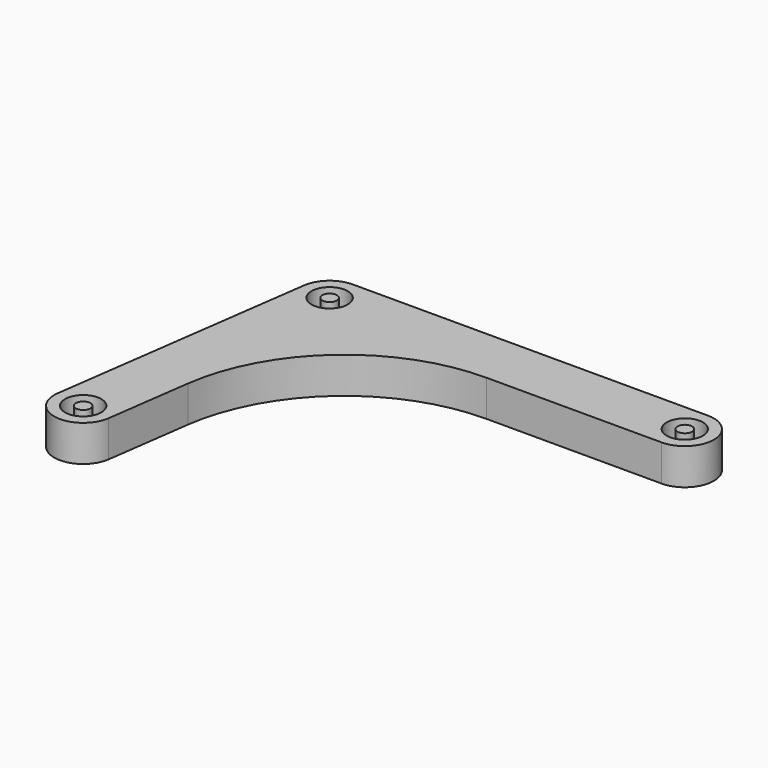
from build123d import *

# Parameters (mm, degrees)
F0_R     = 2.5
F1_DEPTH = 2.5
F2_R     = 1
F3_DEPTH = 5


with BuildPart() as f1:
    # F0 (on Top) → F1 (new body, symmetric)
    with BuildSketch(Plane.XY):
        with BuildLine():
            Line((49, 4), (0, 4))
            ThreePointArc((0, 4), (-2.628042, 3.015526), (-3.962464, 0.546698))
            Line((-3.962464, 0.546698), (-8.962464, -35.693302))
            ThreePointArc((-8.962464, -35.693302), (-5.546698, -40.202464), (-1.037536, -36.786698))
            Line((-1.037536, -36.786698), (0.567765, -25.151477))
            ThreePointArc((0.567765, -25.151477), (8.7411, -10.029905), (24.837858, -4))
            Line((24.837858, -4), (49, -4))
            ThreePointArc((49, -4), (53, 0), (49, 4))
        make_face()
        with Locations((-5, -36.24)):
            Circle(F0_R, mode=Mode.SUBTRACT)
        Circle(F0_R, mode=Mode.SUBTRACT)
        with Locations((49, 0)):
            Circle(F0_R, mode=Mode.SUBTRACT)
    extrude(amount=F1_DEPTH, both=True)


with BuildPart() as f3:
    # F2 (on face) → F3 (new body)
    with BuildSketch(Plane.XY.offset(2.5)):
        Circle(F2_R)
        with Locations((-5, -36.24)):
            Circle(F2_R)
        with Locations((49, 0)):
            Circle(F2_R)
    extrude(amount=-F3_DEPTH)


solid = Compound([f1.part, f3.part])
